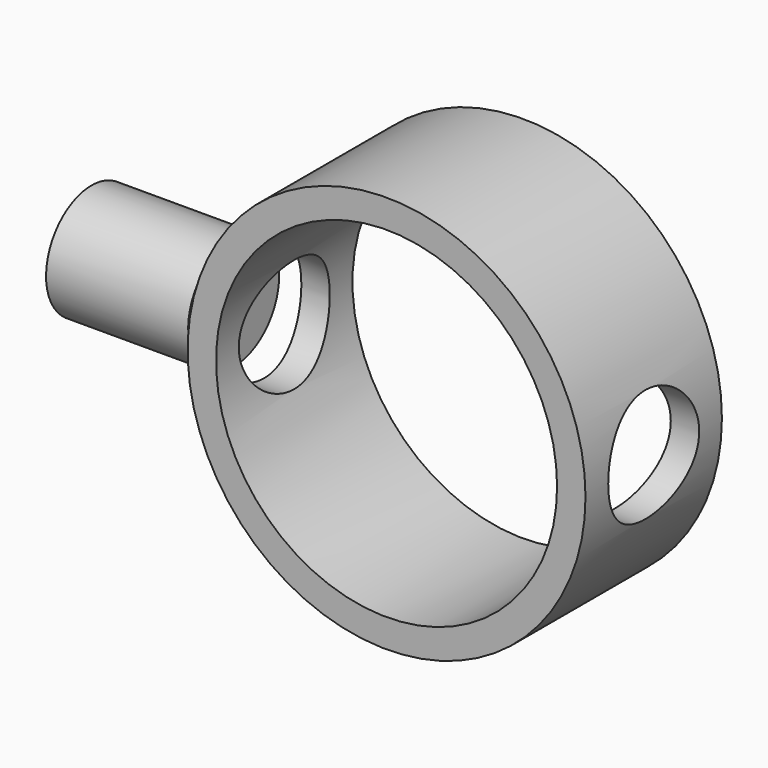
from build123d import *

# Parameters (mm, degrees)
F0_R     = 35
F0_R_2   = 30
F1_DEPTH = 15
F3_D     = 20
F3_DEPTH = 35.001
F4_W     = 25
F4_H     = 10
F7_D     = 20


with BuildPart() as f1:
    # F0 (on Front) → F1 (new body, symmetric)
    with BuildSketch(Plane.XZ):
        Circle(F0_R)
        Circle(F0_R_2, mode=Mode.SUBTRACT)
    extrude(amount=F1_DEPTH, both=True)

    # F3 (through all, one way)
    with BuildSketch(Plane.YZ):
        with Locations((0, 0)):
            Circle(F3_D / 2)
    extrude(amount=-F3_DEPTH, mode=Mode.SUBTRACT)

    # F7 (through all)
    with Locations(Plane(origin=(0, 0, 0), x_dir=(0, 1, 0), z_dir=(-1, 0, 0))):
        with Locations((0, 0)):
            Hole(F7_D / 2)


with BuildPart() as f5:
    # F4 (on Front) → F5 (revolve)
    with BuildSketch(Plane.XZ):
        with Locations((-51.4062489375, -5)):
            Rectangle(F4_W, F4_H)
    revolve(axis=Axis((-51.4062489375, 0, 0), (1, 0, 0)))


solid = Compound([f1.part, f5.part])
